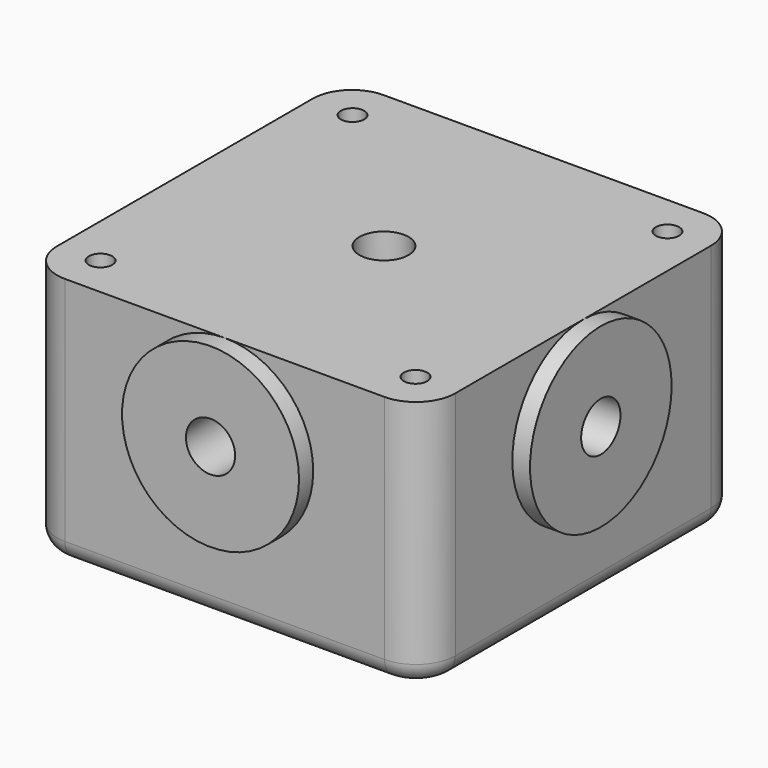
from build123d import *

# Parameters (mm, degrees)
SKETCH_W              = 40.5
SKETCH_H              = 40.5
PAD_DEPTH             = 25.5
SKETCH001_R           = 9
PAD001_DEPTH          = 1.8
POLARPATTERN_COUNT    = 2
POLARPATTERN_ANGLE    = 90
SKETCH002_R           = 2.5
POCKET_DEPTH          = 5
POLARPATTERN001_COUNT = 2
POLARPATTERN001_ANGLE = 90
SKETCH003_R           = 2.5
SKETCH003_R_2         = 1.19
POCKET001_DEPTH       = 5
POCKET002_DEPTH       = 5
FILLET_R              = 4
FILLET001_R           = 2


with BuildPart() as part:
    # Sketch → Pad (new body)
    with BuildSketch(Plane.XY):
        Rectangle(SKETCH_W, SKETCH_H)
    extrude(amount=PAD_DEPTH)

    # Sketch001 (on Face3 of Pad) → Pad001 (join)
    with BuildSketch(Plane.XZ.offset(20.25)):
        with Locations((0, 16.5)):
            Circle(SKETCH001_R)
    pad001 = extrude(amount=PAD001_DEPTH)

    # PolarPattern: Pad001 ×2 about axis
    polarpattern_axis = Axis((0, 0, 0), (0, 0, 1))
    for i in range(1, POLARPATTERN_COUNT):
        add(pad001.rotate(polarpattern_axis, i * POLARPATTERN_ANGLE / (POLARPATTERN_COUNT - 1)))

    # Sketch002 (on Face10 of PolarPattern) → Pocket (cut)
    with BuildSketch(Plane.XZ.offset(22.05)):
        with Locations((0, 16.5)):
            Circle(SKETCH002_R)
    pocket = extrude(amount=-POCKET_DEPTH, mode=Mode.SUBTRACT)

    # PolarPattern001: Pocket ×2 about axis
    polarpattern001_axis = Axis((0, 0, 0), (0, 0, 1))
    for i in range(1, POLARPATTERN001_COUNT):
        add(pocket.rotate(polarpattern001_axis, i * POLARPATTERN001_ANGLE / (POLARPATTERN001_COUNT - 1)), mode=Mode.SUBTRACT)

    # Sketch003 (on Face5 of PolarPattern001) → Pocket001 (cut)
    with BuildSketch(Plane.XY.offset(25.5)):
        Circle(SKETCH003_R)
        with Locations((-16.015969, 16.015969)):
            Circle(SKETCH003_R_2)
        with Locations((16.015969, 16.015969)):
            Circle(SKETCH003_R_2)
        with Locations((-16.015969, -16.015969)):
            Circle(SKETCH003_R_2)
        with Locations((16.015969, -16.015969)):
            Circle(SKETCH003_R_2)
    extrude(amount=-POCKET001_DEPTH, mode=Mode.SUBTRACT)

    # Sketch003 (on Face5 of PolarPattern001) → Pocket002 (cut)
    with BuildSketch(Plane.XY.offset(25.5)):
        Circle(SKETCH003_R)
        with Locations((-16.015969, 16.015969)):
            Circle(SKETCH003_R_2)
        with Locations((16.015969, 16.015969)):
            Circle(SKETCH003_R_2)
        with Locations((-16.015969, -16.015969)):
            Circle(SKETCH003_R_2)
        with Locations((16.015969, -16.015969)):
            Circle(SKETCH003_R_2)
    extrude(amount=-POCKET002_DEPTH, mode=Mode.SUBTRACT)

    # Fillet
    fillet_edges = [part.edges().sort_by_distance(p)[0] for p in [
        (20.25, 20.25, 12.75),
        (20.25, -20.25, 12.75),
        (-20.25, -20.25, 12.75),
        (-20.25, 20.25, 12.75),
    ]]
    fillet(fillet_edges, radius=FILLET_R)

    # Fillet001
    fillet001_edges = [part.edges().sort_by_distance(p)[0] for p in [
        (0, 20.25, 0),
        (-19.078427, 19.078427, 0),
        (19.078427, 19.078427, 0),
        (-20.25, 0, 0),
        (20.25, 0, 0),
        (-19.078427, -19.078427, 0),
        (19.078427, -19.078427, 0),
        (0, -20.25, 0),
    ]]
    fillet(fillet001_edges, radius=FILLET001_R)


solid = part.part
